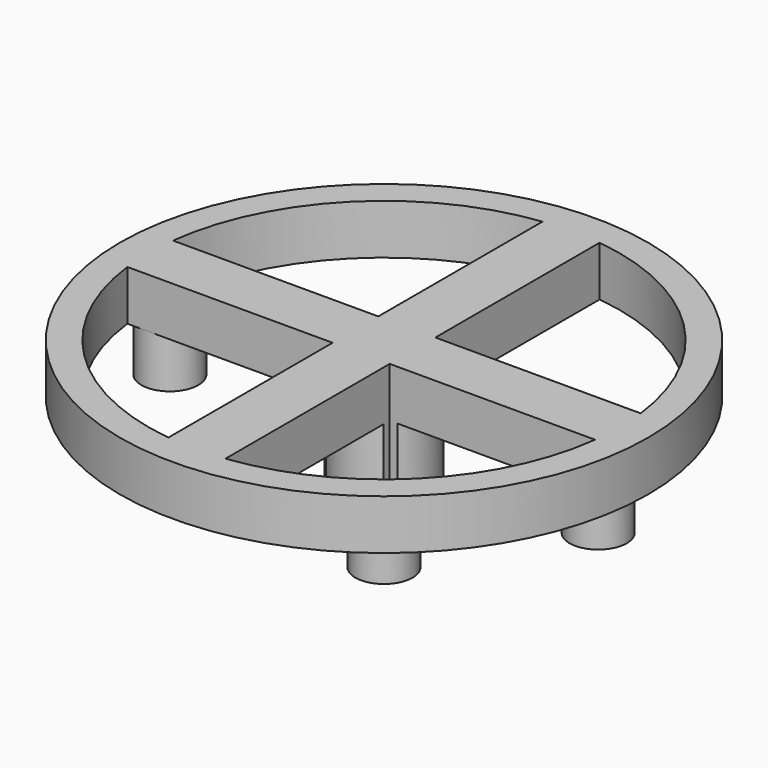
from build123d import *

# Parameters (mm, degrees)
F0_R     = 37
F1_DEPTH = 7
F2_R     = 4
F3_DEPTH = 21
F4_R     = 4
F5_DEPTH = 7
F6_R     = 6.5
F7_DEPTH = 14
F9_DEPTH = 28.001


with BuildPart() as f1:
    # F0 (on Top) → F1 (new body)
    with BuildSketch(Plane.XY):
        Circle(F0_R)
    extrude(amount=F1_DEPTH)

    # F2 (on face) → F3 (join)
    with BuildSketch(Plane(origin=(0, 0, 0), x_dir=(1, 0, 0), z_dir=(0, 0, -1))):
        Circle(F2_R)
    extrude(amount=F3_DEPTH)

    # F4 (on face) → F5 (join)
    with BuildSketch(Plane(origin=(0, 0, 0), x_dir=(1, 0, 0), z_dir=(0, 0, -1))):
        with Locations((-30, 0)):
            Circle(F4_R)
        with Locations((30, 0)):
            Circle(F4_R)
    extrude(amount=F5_DEPTH)

    # F6 (on face) → F7 (join)
    with BuildSketch(Plane(origin=(0, 0, 0), x_dir=(1, 0, 0), z_dir=(0, 0, -1))):
        Circle(F6_R)
    extrude(amount=F7_DEPTH)

    # F8 (on face) → F9 (cut, through all)
    with BuildSketch(Plane.XY.offset(7)):
        with BuildLine():
            Line((-4, -4), (-32.756679, -4))
            ThreePointArc((-32.756679, -4), (-23.334524, -23.334524), (-4, -32.756679))
            Line((-4, -32.756679), (-4, -4))
        make_face()
        with BuildLine():
            Line((-32.756679, 4), (-4, 4))
            Line((-4, 4), (-4, 32.756679))
            ThreePointArc((-4, 32.756679), (-23.334524, 23.334524), (-32.756679, 4))
        make_face()
        with BuildLine():
            Line((4, 4), (32.756679, 4))
            ThreePointArc((32.756679, 4), (23.334524, 23.334524), (4, 32.756679))
            Line((4, 32.756679), (4, 4))
        make_face()
        with BuildLine():
            Line((32.756679, -4), (4, -4))
            Line((4, -4), (4, -32.756679))
            ThreePointArc((4, -32.756679), (23.334524, -23.334524), (32.756679, -4))
        make_face()
    extrude(amount=-F9_DEPTH, mode=Mode.SUBTRACT)


solid = f1.part
